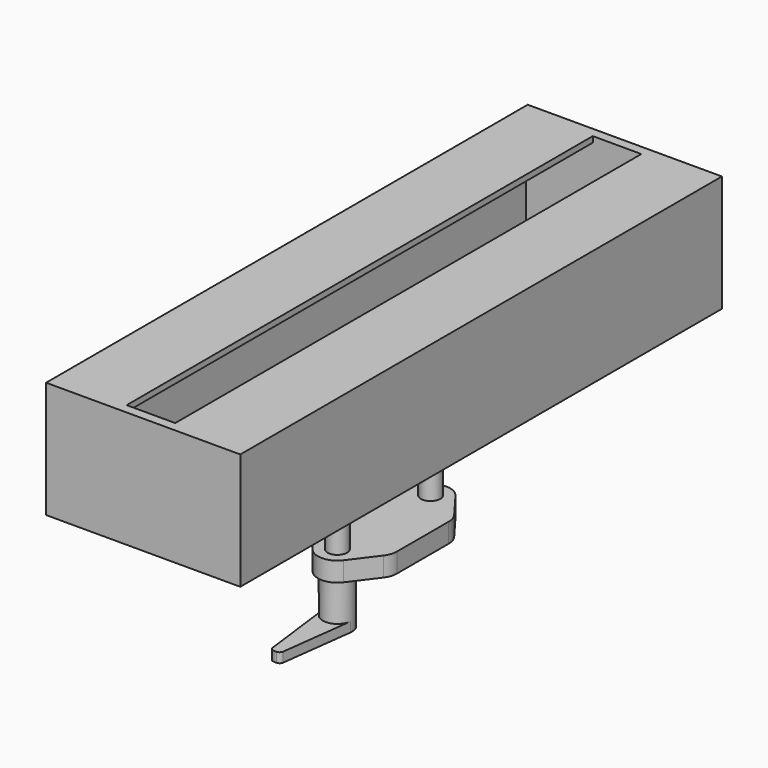
from build123d import *

# Parameters (mm, degrees)
F0_R      = 7.5
F1_DEPTH  = 150
F2_W      = 100
F2_H      = 60
F3_DEPTH  = 5
F4_DEPTH  = 5
F5_W      = 100
F5_H      = 60
F6_DEPTH  = 5
F7_R      = 5
F8_DEPTH  = 50
F9_R      = 5
F10_DEPTH = 10
F11_R     = 7.5
F12_DEPTH = 25
F14_DEPTH = 5


with BuildPart() as f1:
    # F0 (on Front) → F1 (new body, symmetric)
    with BuildSketch(Plane.XZ):
        Polygon((-12.5, 30), (-50, 30), (-50, -30), (50, -30), (50, 30), (12.5, 30), (12.5, 27), (47, 27), (47, -27), (-47, -27), (-47, 27), (-12.5, 27), align=None)
        Circle(F0_R)
    extrude(amount=F1_DEPTH, both=True)

    # F2 (on face) → F3 (join)
    with BuildSketch(Plane.XZ.offset(150)):
        Rectangle(F2_W, F2_H)
    extrude(amount=F3_DEPTH)

    # F2 (on face) → F4 (join)
    with BuildSketch(Plane.XZ.offset(150)):
        Rectangle(F2_W, F2_H)
    extrude(amount=F4_DEPTH)

    # F5 (on face) → F6 (join)
    with BuildSketch(Plane(origin=(0, 150, 0), x_dir=(-1, 0, 0), z_dir=(0, 1, 0))):
        Rectangle(F5_W, F5_H)
    extrude(amount=F6_DEPTH)

    # F7 (on face) → F8 (join)
    with BuildSketch(Plane(origin=(0, 0, -30), x_dir=(1, 0, 0), z_dir=(0, 0, -1))):
        with Locations((0, 30)):
            Circle(F7_R)
        with Locations((0, -30)):
            Circle(F7_R)
    extrude(amount=F8_DEPTH)

    # F9 (on face) → F10 (join)
    with BuildSketch(Plane(origin=(0, 0, -80), x_dir=(1, 0, 0), z_dir=(0, 0, -1))):
        with BuildLine():
            Line((18, 22.666667), (8, 36))
            ThreePointArc((8, 36), (0, 40), (-8, 36))
            Line((-8, 36), (-18, 22.666667))
            ThreePointArc((-18, 22.666667), (-19.486833, 19.828944), (-20, 16.666667))
            Line((-20, 16.666667), (-20, -16.666667))
            ThreePointArc((-20, -16.666667), (-19.486833, -19.828944), (-18, -22.666667))
            Line((-18, -22.666667), (-8, -36))
            ThreePointArc((-8, -36), (0, -40), (8, -36))
            Line((8, -36), (18, -22.666667))
            ThreePointArc((18, -22.666667), (19.486833, -19.828944), (20, -16.666667))
            Line((20, -16.666667), (20, 16.666667))
            ThreePointArc((20, 16.666667), (19.486833, 19.828944), (18, 22.666667))
        make_face()
        with Locations((0, 30)):
            Circle(F9_R, mode=Mode.SUBTRACT)
        with Locations((0, 30)):
            Circle(F9_R)
    extrude(amount=F10_DEPTH)

    # F11 (on face) → F12 (join)
    with BuildSketch(Plane(origin=(0, 0, -90), x_dir=(1, 0, 0), z_dir=(0, 0, -1))):
        with Locations((0, 30)):
            Circle(F11_R)
    extrude(amount=F12_DEPTH)

    # F13 (on face) → F14 (join)
    with BuildSketch(Plane(origin=(0, 0, -115), x_dir=(1, 0, 0), z_dir=(0, 0, -1))):
        with BuildLine():
            Line((-2.721043, 68.291105), (-7.440829, 30.940249))
            ThreePointArc((-7.440829, 30.940249), (0, 22.5), (7.440829, 30.940249))
            Line((7.440829, 30.940249), (2.721043, 68.291105))
            ThreePointArc((2.721043, 68.291105), (2.059421, 69.540617), (0.736823, 70.040372))
            Line((0.736823, 70.040372), (-0.736823, 70.040372))
            ThreePointArc((-0.736823, 70.040372), (-2.059421, 69.540617), (-2.721043, 68.291105))
        make_face()
    extrude(amount=-F14_DEPTH)


solid = f1.part
